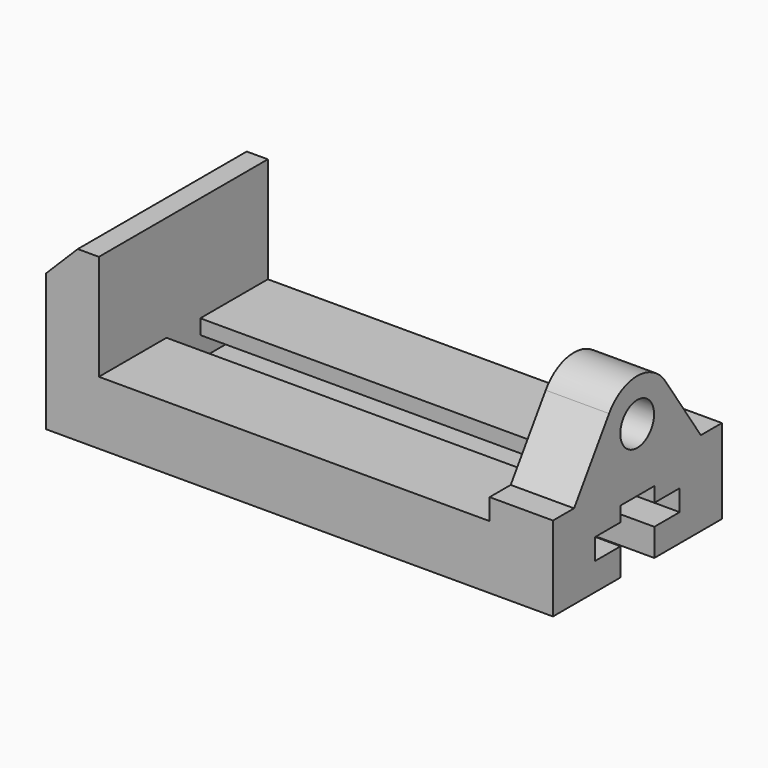
from build123d import *

# Parameters (mm, degrees)
F0_W      = 304.8
F0_H      = 127
F1_DEPTH  = 38.1
F2_W      = 31.75
F2_H      = 127
F3_DEPTH  = 63.5
F5_DEPTH  = 127.001
F7_DEPTH  = 273.05
F9_DEPTH  = 38.1
F10_R     = 12.7
F11_DEPTH = 38.1


with BuildPart() as f1:
    # F0 (on Top) → F1 (new body)
    with BuildSketch(Plane.XY):
        with Locations((152.4, 63.5)):
            Rectangle(F0_W, F0_H)
    extrude(amount=F1_DEPTH)

    # F2 (on face) → F3 (join)
    with BuildSketch(Plane.XY.offset(38.1)):
        with Locations((15.875, 63.5)):
            Rectangle(F2_W, F2_H)
    extrude(amount=F3_DEPTH)

    # F4 (on face) → F5 (cut, through all)
    with BuildSketch(Plane.XZ):
        Polygon((19.05, 101.6), (0, 101.6), (0, 82.55), align=None)
    extrude(amount=-F5_DEPTH, mode=Mode.SUBTRACT)

    # F6 (on face) → F7 (cut)
    with BuildSketch(Plane.YZ.offset(304.8)):
        Polygon((50.8, 16.51), (50.8, 0), (76.2, 0), (76.2, 16.51), (95.25, 16.51), (95.25, 29.21), (76.2, 29.21), (76.2, 38.1), (50.8, 38.1), (50.8, 29.21), (31.75, 29.21), (31.75, 16.51), align=None)
    extrude(amount=-F7_DEPTH, mode=Mode.SUBTRACT)

    # F8 (on face) → F9 (join)
    with BuildSketch(Plane.YZ.offset(304.8)):
        with BuildLine():
            Line((0, 50.8), (0, 38.1))
            Line((0, 38.1), (127, 38.1))
            Line((127, 38.1), (127, 50.8))
            Line((127, 50.8), (111.125, 50.8))
            Line((111.125, 50.8), (84.360147, 90.419272))
            ThreePointArc((84.360147, 90.419272), (63.22985, 101.600555), (42.17301, 90.281542))
            Line((42.17301, 90.281542), (15.875, 50.8))
            Line((15.875, 50.8), (0, 50.8))
        make_face()
    extrude(amount=-F9_DEPTH)

    # F10 (on face) → F11 (cut)
    with BuildSketch(Plane.YZ.offset(304.8)):
        with Locations((63.312774, 76.20069)):
            Circle(F10_R)
    extrude(amount=-F11_DEPTH, mode=Mode.SUBTRACT)


solid = f1.part
